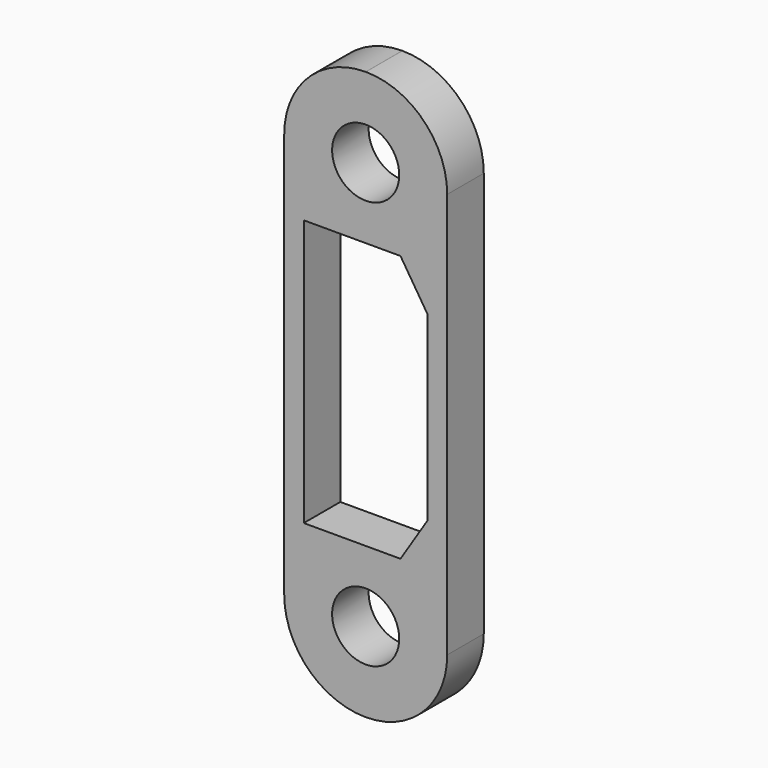
from build123d import *

# Parameters (mm, degrees)
F0_R     = 2.202397
F1_DEPTH = 2.999994


with BuildPart() as f1:
    # F0 (on Front) → F1 (new body)
    with BuildSketch(Plane.XZ):
        with BuildLine():
            ThreePointArc((-7.190473, 35.642618), (-8.754892, 39.419458), (-12.531732, 40.983877))
            Line((-12.531732, 40.983877), (-12.543772, 40.983877))
            ThreePointArc((-12.543772, 40.983877), (-16.32446, 39.417865), (-17.890472, 35.637177))
            Line((-17.890472, 35.637177), (-17.890472, 9.030575))
            ThreePointArc((-17.890472, 9.030575), (-16.32446, 5.249888), (-12.543772, 3.683875))
            Line((-12.543772, 3.683875), (-12.531732, 3.683875))
            ThreePointArc((-12.531732, 3.683875), (-8.754892, 5.248294), (-7.190473, 9.025134))
            Line((-7.190473, 9.025134), (-7.190473, 35.642618))
        make_face()
        with Locations((-12.543772, 8.931871)):
            Circle(F0_R, mode=Mode.SUBTRACT)
        Polygon((-8.479772, 16.377876), (-10.257772, 13.583876), (-16.607772, 13.583876), (-16.607772, 31.083876), (-10.257772, 31.083876), (-8.479772, 28.289876), align=None, mode=Mode.SUBTRACT)
        with Locations((-12.543772, 35.735881)):
            Circle(F0_R, mode=Mode.SUBTRACT)
    extrude(amount=F1_DEPTH)


solid = f1.part
